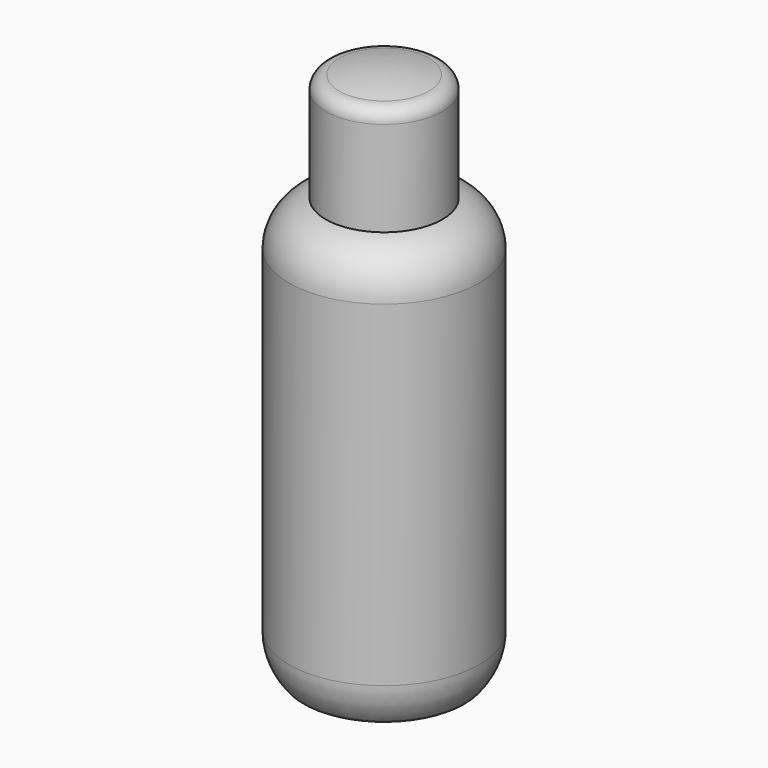
from build123d import *


with BuildPart() as f1:
    # F0 (on Front) → F1 (revolve)
    with BuildSketch(Plane.XZ):
        with BuildLine():
            Line((0, 195), (0, 155))
            Line((0, 155), (21.5, 155))
            Line((21.5, 155), (21.5, 190))
            ThreePointArc((21.5, 190), (20.035534, 193.535534), (16.5, 195))
            ThreePointArc((16.5, 195), (8.309571, 196.491457), (0, 197))
            Line((0, 197), (0, 195))
        make_face()
    revolve(axis=Axis((0, 0, 175), (0, 0, 1)))


with BuildPart() as f2:
    # F0 (on Front) → F2 (revolve)
    with BuildSketch(Plane.XZ):
        with BuildLine():
            Line((0, 155), (0, 0))
            Line((0, 0), (28, 0))
            Line((28, 0), (28.51676, 0))
            ThreePointArc((28.51676, 0), (29.376414, 0.324927), (30, 1))
            ThreePointArc((30, 1), (33.712315, 7.548042), (35, 14.96424))
            Line((35, 14.96424), (35, 138))
            Line((35, 138), (35, 138.726757))
            ThreePointArc((35, 138.726757), (31.087748, 149.217525), (21.5, 155))
            Line((21.5, 155), (0, 155))
        make_face()
    revolve(axis=Axis((0, 0, 77.5), (0, 0, 1)))


solid = Compound([f1.part, f2.part])
